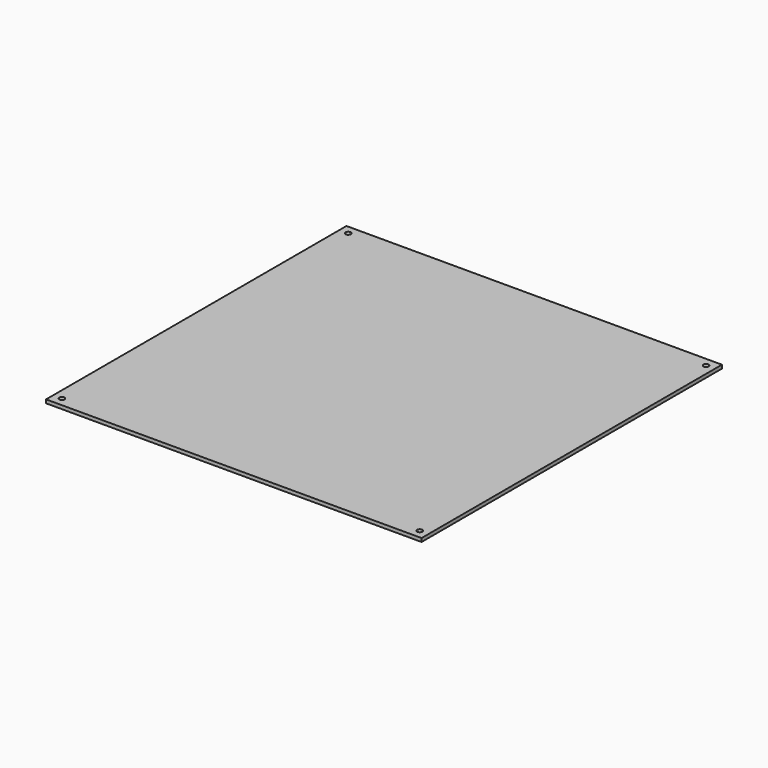
from build123d import *

# Parameters (mm, degrees)
F0_W     = 214
F0_H     = 214
F1_DEPTH = 2
F2_D     = 3


with BuildPart() as f1:
    # F0 (on Top) → F1 (new body)
    with BuildSketch(Plane.XY):
        Rectangle(F0_W, F0_H)
    extrude(amount=F1_DEPTH)

    # F2 (through all)
    with Locations(Plane(origin=(0, 0, 0), x_dir=(1, 0, 0), z_dir=(0, 0, -1))):
        with Locations((-102, 102), (102, 102), (102, -102), (-102, -102)):
            Hole(F2_D / 2)


solid = f1.part
